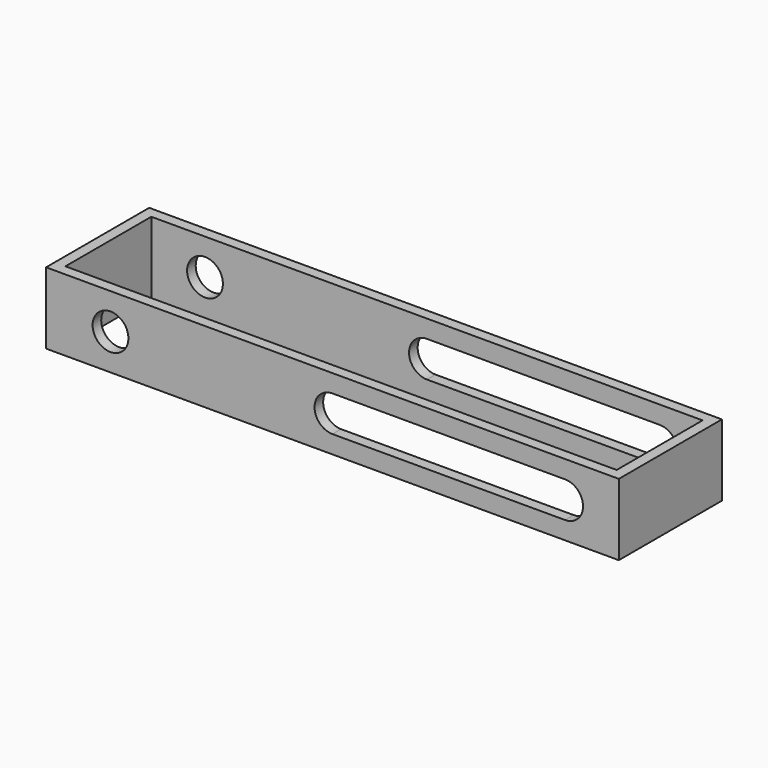
from build123d import *

# Parameters (mm, degrees)
F1_W     = 3
F1_H     = 20
F2_DEPTH = 15
F3_DEPTH = 3


with BuildPart() as f2:
    # F1 (on offset) → F2 (new body, through all)
    with BuildSketch(Plane.XZ.offset(15)):
        with Locations((78.5, 10)):
            Rectangle(F1_W, F1_H)
    extrude(amount=-F2_DEPTH)



with BuildPart() as f2b:
    # F1 (on offset) → F2, piece 2 (new body, through all)
    with BuildSketch(Plane.XZ.offset(15)):
        with Locations((-78.5, 10)):
            Rectangle(F1_W, F1_H)
    extrude(amount=-F2_DEPTH)


with BuildPart() as f2_1:
    add(f2.part)

    add(f2b.part)  # F3 merges F2b
    # F1 (on offset) → F3 (join)
    with BuildSketch(Plane.XZ.offset(15)):
        with BuildLine():
            Line((0, 5), (0, 0))
            Line((0, 0), (67, 0))
            Line((67, 0), (77, 0))
            Line((77, 0), (77, 20))
            Line((77, 20), (0, 20))
            Line((0, 20), (0, 15))
            Line((0, 15), (65, 15))
            ThreePointArc((65, 15), (68.5355339059, 13.5355339059), (70, 10))
            ThreePointArc((70, 10), (68.5355339059, 6.4644660941), (65, 5))
            Line((65, 5), (0, 5))
        make_face()
        with BuildLine():
            Line((0, 5), (0, 0))
            Line((0, 0), (67, 0))
            Line((67, 0), (77, 0))
            Line((77, 0), (77, 20))
            Line((77, 20), (0, 20))
            Line((0, 20), (0, 15))
            Line((0, 15), (65, 15))
            ThreePointArc((65, 15), (68.5355339059, 13.5355339059), (70, 10))
            ThreePointArc((70, 10), (68.5355339059, 6.4644660941), (65, 5))
            Line((65, 5), (0, 5))
        make_face()
        with BuildLine():
            Line((0, 5), (0, 0))
            Line((0, 0), (67, 0))
            Line((67, 0), (77, 0))
            Line((77, 0), (77, 20))
            Line((77, 20), (0, 20))
            Line((0, 20), (0, 15))
            Line((0, 15), (65, 15))
            ThreePointArc((65, 15), (68.5355339059, 13.5355339059), (70, 10))
            ThreePointArc((70, 10), (68.5355339059, 6.4644660941), (65, 5))
            Line((65, 5), (0, 5))
        make_face()
        with BuildLine():
            Line((-67, 10), (-67, 0))
            Line((-67, 0), (0, 0))
            Line((0, 0), (0, 5))
            ThreePointArc((0, 5), (-5, 10), (0, 15))
            Line((0, 15), (0, 20))
            Line((0, 20), (-67, 20))
            Line((-67, 20), (-67, 10))
        make_face()
        with BuildLine():
            ThreePointArc((-57, 10), (-62, 5), (-67, 10))
            ThreePointArc((-67, 10), (-62, 15), (-57, 10))
        make_face(mode=Mode.SUBTRACT)
        Polygon((-77, 20), (-77, 0), (-67, 0), (-67, 10), (-67, 20), align=None)
        with Locations((-78.5, 10)):
            Rectangle(F1_W, F1_H)
        with Locations((78.5, 10)):
            Rectangle(F1_W, F1_H)
    extrude(amount=F3_DEPTH)

    # F4: F2 across plane


with BuildPart() as f2_2:
    add(f2_1.part)
    add(f2_1.part.mirror(Plane.XZ))


solid = f2_2.part
